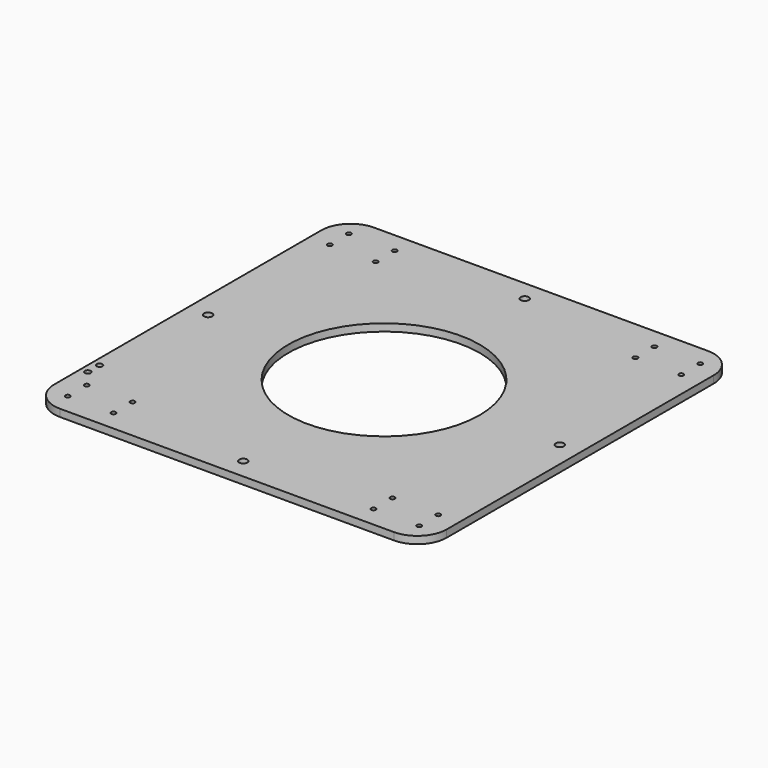
from build123d import *

# Parameters (mm, degrees)
F1_DEPTH = 6.35
F2_R     = 82.87
F3_DEPTH = 6.351
F4_D     = 4.0386
F5_D     = 7.112
F6_D     = 5.1054


with BuildPart() as f1:
    # F0 (on Top) → F1 (new body)
    with BuildSketch(Plane.XY):
        with BuildLine():
            Line((144.6, 170), (-144.6, 170))
            ThreePointArc((-144.6, 170), (-162.5605122421, 162.5605122421), (-170, 144.6))
            Line((-170, 144.6), (-170, -144.6))
            ThreePointArc((-170, -144.6), (-162.5605122421, -162.5605122421), (-144.6, -170))
            Line((-144.6, -170), (144.6, -170))
            ThreePointArc((144.6, -170), (162.5605122421, -162.5605122421), (170, -144.6))
            Line((170, -144.6), (170, 144.6))
            ThreePointArc((170, 144.6), (162.5605122421, 162.5605122421), (144.6, 170))
        make_face()
    extrude(amount=F1_DEPTH)

    # F2 (on face) → F3 (cut, through all)
    with BuildSketch(Plane.XY.offset(6.35)):
        Circle(F2_R)
    extrude(amount=-F3_DEPTH, mode=Mode.SUBTRACT)

    # F4 (through all)
    with Locations(Plane.XY.offset(6.35)):
        with Locations((-152.22, 131.6), (-152.22, 152.22), (-112.55, 152.22), (-112.55, 131.6), (152.22, 131.6), (152.22, 152.22), (112.55, 152.22), (112.55, 131.6), (152.22, -131.6), (152.22, -152.22), (112.55, -152.22), (112.55, -131.6), (-112.55, -152.22), (-112.55, -131.6), (-152.22, -131.6), (-152.22, -152.22)):
            Hole(F4_D / 2)

    # F5 (through all)
    with Locations(Plane.XY.offset(6.35)):
        with Locations((0, 152.4), (152.4, 0), (0, -152.4), (-152.4, 0)):
            Hole(F5_D / 2)

    # F6 (through all)
    with Locations(Plane.XY.offset(6.35)):
        with Locations((-163.65, -116.15), (-163.65, -103.45)):
            Hole(F6_D / 2)


solid = f1.part
